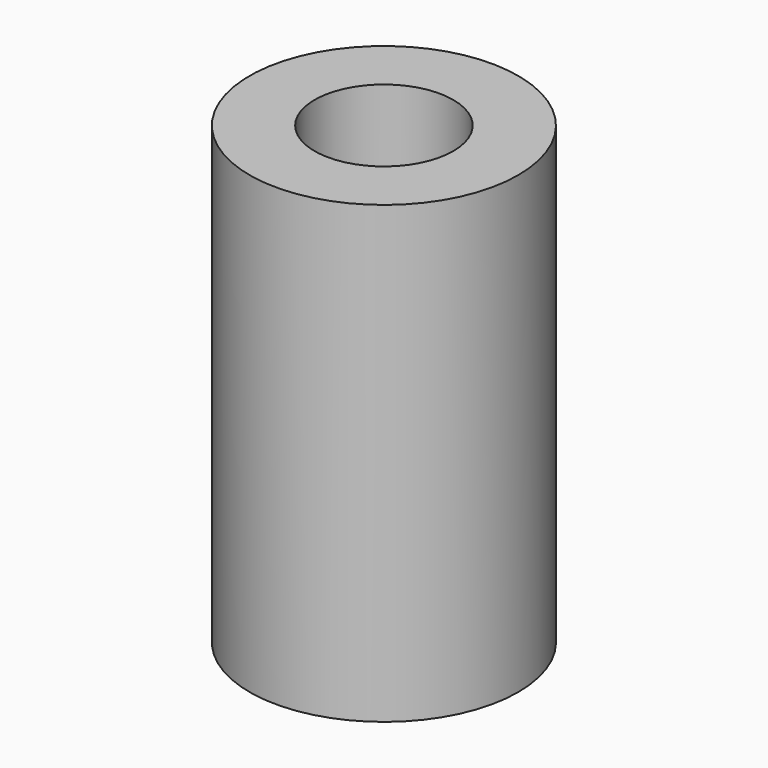
from build123d import *

# Parameters (mm, degrees)
SKETCH_R   = 3.1
SKETCH_R_2 = 1.6
PAD_DEPTH  = 10.5


with BuildPart() as part:
    # Sketch → Pad (new body)
    with BuildSketch(Plane.XY):
        Circle(SKETCH_R)
        Circle(SKETCH_R_2, mode=Mode.SUBTRACT)
    extrude(amount=PAD_DEPTH)


solid = part.part
